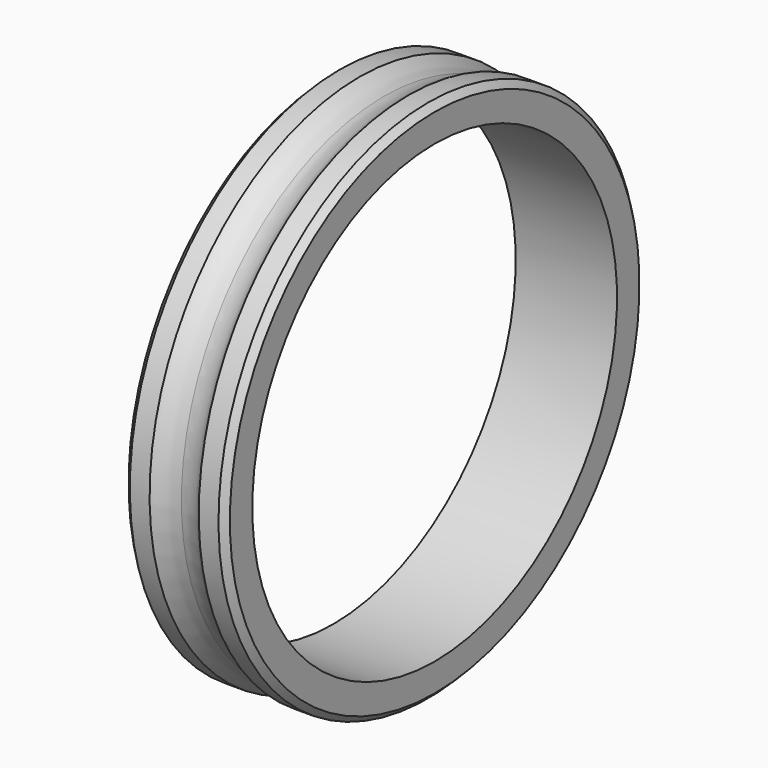
from build123d import *

# Parameters (mm, degrees)
F2_SIZE = 0.25


with BuildPart() as f1:
    # F0 (on Front) → F1 (revolve)
    with BuildSketch(Plane.XZ):
        with BuildLine():
            ThreePointArc((0.970704, 10.356438), (0.517038, 10.091926), (0, 10))
            ThreePointArc((0, 10), (-0.517038, 10.091926), (-0.970704, 10.356438))
            Line((-0.970704, 10.356438), (-2, 10.356438))
            Line((-2, 10.356438), (-2, 9))
            Line((-2, 9), (0, 9))
            Line((0, 9), (2, 9))
            Line((2, 9), (2, 10.356438))
            Line((2, 10.356438), (0.970704, 10.356438))
        make_face()
    revolve(axis=Axis((0.374946, 0, 0), (1, 0, 0)))

    # F2
    f2_edges = [f1.edges().sort_by_distance(p)[0] for p in [
        (2, 0, -10.356438),
        (-2, 0, -10.356438),
    ]]
    chamfer(f2_edges, length=F2_SIZE)


solid = f1.part
